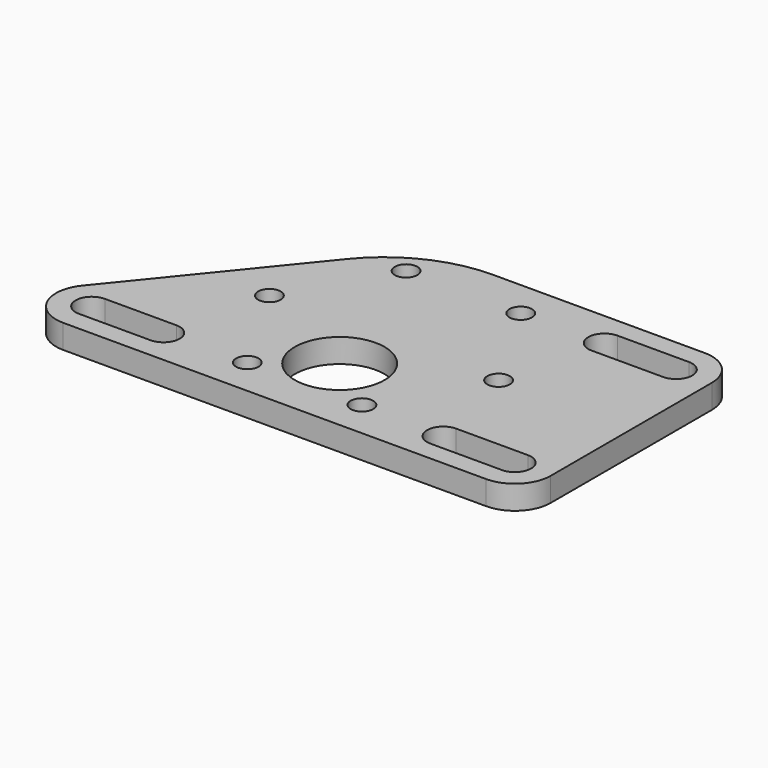
from build123d import *

# Parameters (mm, degrees)
F0_R     = 1.5
F0_R_2   = 5.969
F1_DEPTH = 3.175


with BuildPart() as f1:
    # F0 (on Top) → F1 (new body)
    with BuildSketch(Plane.XY):
        with BuildLine():
            Line((28.12519, 18.161), (0, 18.161))
            ThreePointArc((0, 18.161), (-7.810662, 16.395593), (-14.102796, 11.442599))
            Line((-14.102796, 11.442599), (-31.823475, -10.397819))
            ThreePointArc((-31.823475, -10.397819), (-32.424733, -15.446751), (-28.12519, -18.161))
            Line((-28.12519, -18.161), (28.12519, -18.161))
            ThreePointArc((28.12519, -18.161), (31.492786, -16.766096), (32.88769, -13.3985))
            Line((32.88769, -13.3985), (32.88769, 13.3985))
            ThreePointArc((32.88769, 13.3985), (31.492786, 16.766096), (28.12519, 18.161))
        make_face()
        with BuildLine():
            ThreePointArc((-28.12519, -15.55115), (-30.27784, -13.3985), (-28.12519, -11.24585))
            Line((-28.12519, -11.24585), (-18.60019, -11.24585))
            ThreePointArc((-18.60019, -11.24585), (-16.44754, -13.3985), (-18.60019, -15.55115))
            Line((-18.60019, -15.55115), (-28.12519, -15.55115))
        make_face(mode=Mode.SUBTRACT)
        with Locations((-7.62, -13.198227)):
            Circle(F0_R, mode=Mode.SUBTRACT)
        with Locations((0, -7.366)):
            Circle(F0_R_2, mode=Mode.SUBTRACT)
        with Locations((7.62, -13.198227)):
            Circle(F0_R, mode=Mode.SUBTRACT)
        with BuildLine():
            ThreePointArc((28.12519, -11.24585), (30.27784, -13.3985), (28.12519, -15.55115))
            Line((28.12519, -15.55115), (18.60019, -15.55115))
            ThreePointArc((18.60019, -15.55115), (16.44754, -13.3985), (18.60019, -11.24585))
            Line((18.60019, -11.24585), (28.12519, -11.24585))
        make_face(mode=Mode.SUBTRACT)
        with Locations((-15.24, 0)):
            Circle(F0_R, mode=Mode.SUBTRACT)
        with Locations((-7.62, 13.198227)):
            Circle(F0_R, mode=Mode.SUBTRACT)
        with Locations((15.24, 0)):
            Circle(F0_R, mode=Mode.SUBTRACT)
        with Locations((7.62, 13.198227)):
            Circle(F0_R, mode=Mode.SUBTRACT)
        with BuildLine():
            ThreePointArc((28.12519, 15.55115), (30.27784, 13.3985), (28.12519, 11.24585))
            Line((28.12519, 11.24585), (18.60019, 11.24585))
            ThreePointArc((18.60019, 11.24585), (16.44754, 13.3985), (18.60019, 15.55115))
            Line((18.60019, 15.55115), (28.12519, 15.55115))
        make_face(mode=Mode.SUBTRACT)
    extrude(amount=F1_DEPTH)


solid = f1.part
